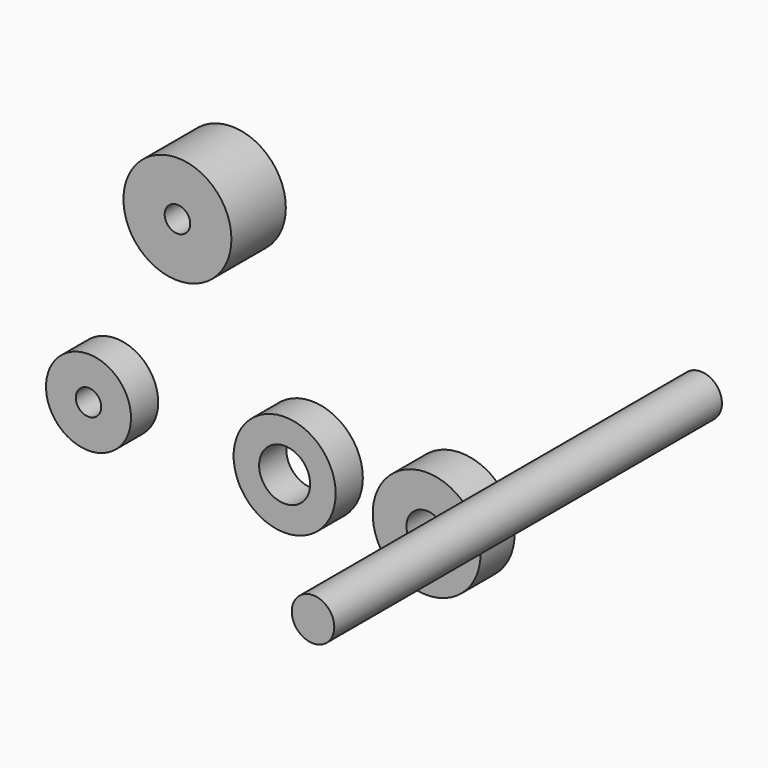
from build123d import *

# Parameters (mm, degrees)
F0_R     = 6.35
F0_R_2   = 2.375
F1_DEPTH = 5
F2_R     = 2.5
F3_DEPTH = 57
F4_R     = 5
F4_R_2   = 1.5
F5_DEPTH = 4
F6_R     = 6
F6_R_2   = 3
F7_DEPTH = 4
F8_R     = 6.35
F8_R_2   = 1.5
F9_DEPTH = 8


with BuildPart() as f1:
    # F0 (on Front) → F1 (new body)
    with BuildSketch(Plane.XZ):
        Circle(F0_R)
        Circle(F0_R_2, mode=Mode.SUBTRACT)
    extrude(amount=F1_DEPTH)


with BuildPart() as f3:
    # F2 (on Front) → F3 (new body)
    with BuildSketch(Plane.XZ):
        with Locations((28.235165, 21.453524)):
            Circle(F2_R)
    extrude(amount=F3_DEPTH)


with BuildPart() as f5:
    # F4 (on Front) → F5 (new body)
    with BuildSketch(Plane.XZ):
        with Locations((-40.575489, 0)):
            Circle(F4_R)
        with Locations((-40.575489, 0)):
            Circle(F4_R_2, mode=Mode.SUBTRACT)
    extrude(amount=F5_DEPTH)


with BuildPart() as f7:
    # F6 (on Front) → F7 (new body)
    with BuildSketch(Plane.XZ):
        with Locations((-17.506289, 0)):
            Circle(F6_R)
        with Locations((-17.506289, 0)):
            Circle(F6_R_2, mode=Mode.SUBTRACT)
    extrude(amount=F7_DEPTH)


with BuildPart() as f9:
    # F8 (on Front) → F9 (new body)
    with BuildSketch(Plane.XZ):
        with Locations((-26.915228, 25.034055)):
            Circle(F8_R)
        with Locations((-26.915228, 25.034055)):
            Circle(F8_R_2, mode=Mode.SUBTRACT)
    extrude(amount=F9_DEPTH)


solid = Compound([f1.part, f3.part, f5.part, f7.part, f9.part])
